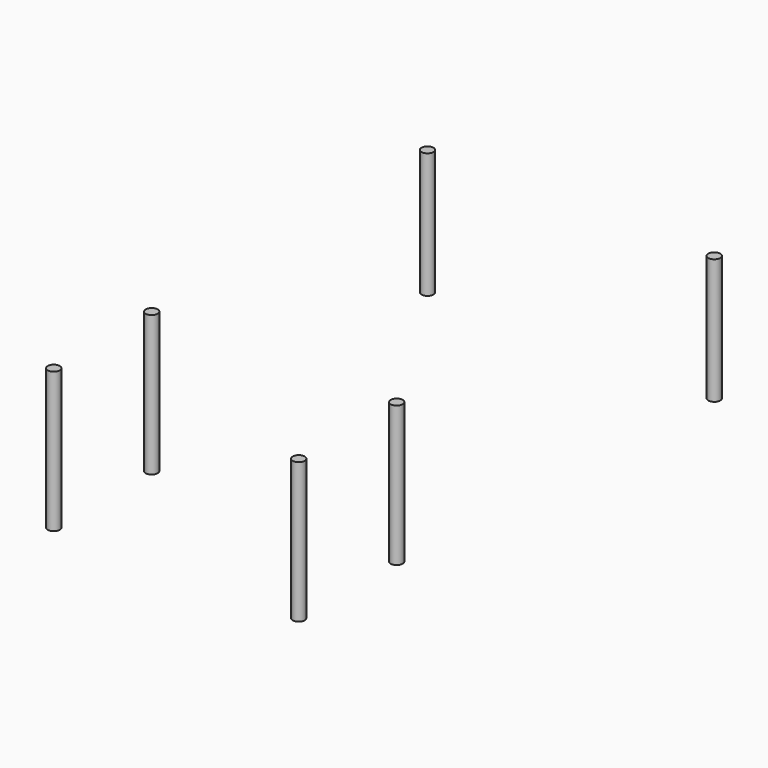
from build123d import *

# Parameters (mm, degrees)
CYLINDER330_R     = 2
CYLINDER330_DEPTH = 47
CYLINDER329_R     = 2
CYLINDER329_DEPTH = 47
CYLINDER309_R     = 2
CYLINDER309_DEPTH = 42
CYLINDER308_R     = 2
CYLINDER308_DEPTH = 42
CYLINDER328_R     = 2
CYLINDER328_DEPTH = 47
CYLINDER327_R     = 2
CYLINDER327_DEPTH = 47


with BuildPart() as cylinder330:
    # Cylinder330 → Cylinder330 (new body)
    with BuildSketch(Plane(origin=(-75, -98, -5), x_dir=(1, 0, 0), z_dir=(0, 0, 1))):
        Circle(CYLINDER330_R)
    extrude(amount=CYLINDER330_DEPTH)


with BuildPart() as fusion317:
    # Cylinder329 → Cylinder329 (new body)
    with BuildSketch(Plane(origin=(7, -98, -5), x_dir=(1, 0, 0), z_dir=(0, 0, 1))):
        Circle(CYLINDER329_R)
    extrude(amount=CYLINDER329_DEPTH)

    # Fusion317: union Cylinder330
    add(cylinder330.part)


with BuildPart() as fusion317_1:
    # Fusion317 placement: moved
    add(fusion317.part.moved(Location((0, 41, 0))))


with BuildPart() as cylinder309:
    # Cylinder309 → Cylinder309 (new body)
    with BuildSketch(Plane(origin=(14.1, 72, -5), x_dir=(1, 0, 0), z_dir=(0, 0, 1))):
        Circle(CYLINDER309_R)
    extrude(amount=CYLINDER309_DEPTH)


with BuildPart() as fusion275:
    # Cylinder308 → Cylinder308 (new body)
    with BuildSketch(Plane(origin=(-81.9, 72, -5), x_dir=(1, 0, 0), z_dir=(0, 0, 1))):
        Circle(CYLINDER308_R)
    extrude(amount=CYLINDER308_DEPTH)

    # Fusion275: union Cylinder309
    add(cylinder309.part)


with BuildPart() as fusion275_1:
    # Fusion275 placement: moved
    add(fusion275.part.moved(Location((0, -5, 0))))


with BuildPart() as cylinder328:
    # Cylinder328 → Cylinder328 (new body)
    with BuildSketch(Plane(origin=(-75, -98, -5), x_dir=(1, 0, 0), z_dir=(0, 0, 1))):
        Circle(CYLINDER328_R)
    extrude(amount=CYLINDER328_DEPTH)


with BuildPart() as fusion328:
    # Cylinder327 → Cylinder327 (new body)
    with BuildSketch(Plane(origin=(7, -98, -5), x_dir=(1, 0, 0), z_dir=(0, 0, 1))):
        Circle(CYLINDER327_R)
    extrude(amount=CYLINDER327_DEPTH)

    # Fusion316: union Cylinder328
    add(cylinder328.part)

    # Fusion328: union Fusion317, Fusion275
    add(fusion317_1.part)
    add(fusion275_1.part)


solid = fusion328.part
